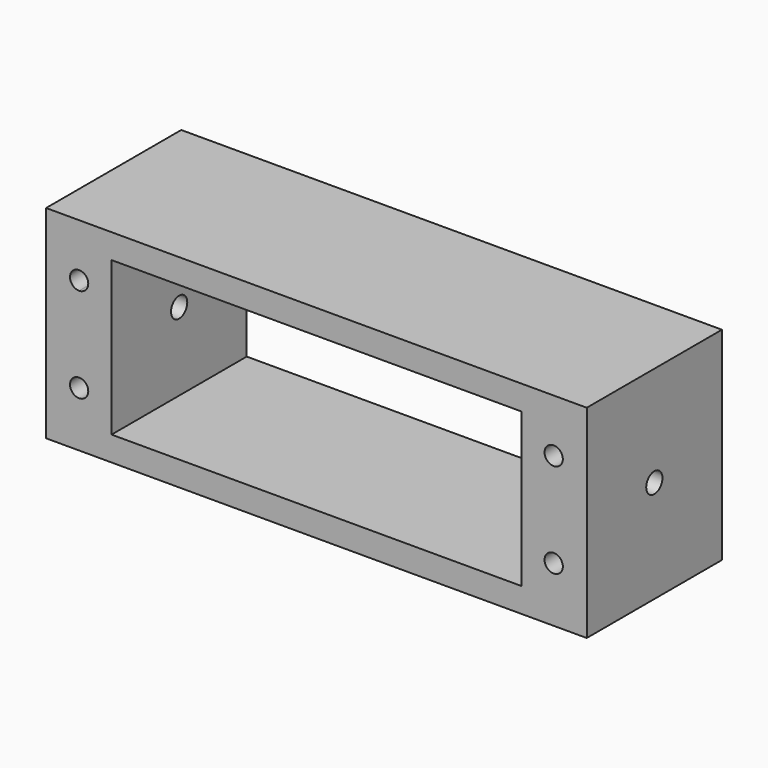
from build123d import *

# Parameters (mm, degrees)
F0_W      = 80
F0_H      = 30
F1_DEPTH  = 25
F3_DEPTH  = 20
F4_R      = 1.5
F5_DEPTH  = 1000
F3_FACE_W = 60.621056
F3_FACE_H = 22.732896
F6_DEPTH  = 25
F7_R      = 1.35
F7_R_2    = 1
F8_DEPTH  = 100000


with BuildPart() as f1:
    # F0 (on Front) → F1 (new body)
    with BuildSketch(Plane.XZ):
        with Locations((5.157232, 15)):
            Rectangle(F0_W, F0_H)
    extrude(amount=F1_DEPTH)

    # F2 (on face) → F3 (cut)
    with BuildSketch(Plane.XZ.offset(25)):
        Polygon((35.46776, 26.366448), (-25.153296, 26.366448), (5.157232, 15), align=None)
        Polygon((5.157232, 15), (-25.153296, 26.366448), (-25.153296, 3.633552), align=None)
        Polygon((35.46776, 26.366448), (5.157232, 15), (35.46776, 3.633552), align=None)
        Polygon((35.46776, 3.633552), (5.157232, 15), (-25.153296, 3.633552), align=None)
    extrude(amount=-F3_DEPTH, mode=Mode.SUBTRACT)

    # F4 (on face) → F5 (cut)
    with BuildSketch(Plane.YZ.offset(45.157232)):
        with Locations((-12.5, 15.157233)):
            Circle(F4_R)
    extrude(amount=-F5_DEPTH, mode=Mode.SUBTRACT)

    # F3_face (on face) → F6 (cut)
    with BuildSketch(Plane(origin=(5.157232, -5, 15), x_dir=(1, 0, 0), z_dir=(0, -1, 0))):
        Rectangle(F3_FACE_W, F3_FACE_H)
    extrude(amount=-F6_DEPTH, mode=Mode.SUBTRACT)

    # F7 (on face) → F8 (cut)
    with BuildSketch(Plane.XZ.offset(25)):
        with BuildLine():
            ThreePointArc((-29.95245, 20.807233), (-28.997856, 21.202639), (-28.60245, 22.157233))
            ThreePointArc((-28.60245, 22.157233), (-30.907045, 23.111827), (-29.95245, 20.807233))
        make_face()
        with Locations((-29.95245, 8.157233)):
            Circle(F7_R)
        with Locations((40.266914, 8.157233)):
            Circle(F7_R)
        with Locations((40.266914, 22.157233)):
            Circle(F7_R)
        with Locations((-12.661189, -18.048356)):
            Circle(F7_R_2)
    extrude(amount=-F8_DEPTH, mode=Mode.SUBTRACT)


solid = f1.part
